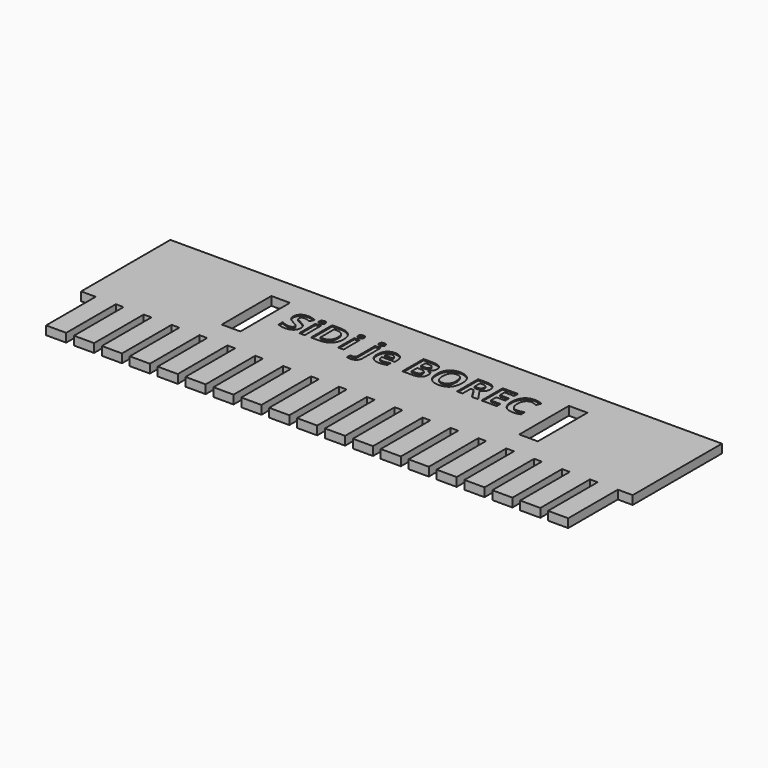
from build123d import *

# Parameters (mm, degrees)
F0_W     = 3
F0_H     = 10
F1_DEPTH = 1.2
F2_W     = 3
F2_H     = 10
F2_W_2   = 0.8927400468
F2_H_2   = 3.2730679157
F3_DEPTH = 0.2


with BuildPart() as f1:
    # F0 (on Top) → F1 (new body)
    with BuildSketch(Plane.XY):
        Polygon((21.7952465117, -13.86883948), (25.0452465117, -13.86883948), (25.0452465117, -3.86883948), (27.4452465117, -3.86883948), (27.4452465117, 0.13116052), (27.4452465117, 10.13116052), (27.4452465117, 14.13116052), (-36.6047604308, 14.13116052), (-39.6047604308, 14.13116052), (-61.5547534883, 14.13116052), (-61.5547534883, 10.13116052), (-61.5547534883, 0.13116052), (-61.5547534883, -3.86883948), (-59.2047534883, -3.86883948), (-59.2047534883, -13.86883948), (-55.9547534883, -13.86883948), (-55.9547534883, -3.86883948), (-54.7047534883, -3.86883948), (-54.7047534883, -13.86883948), (-51.4547534883, -13.86883948), (-51.4547534883, -3.86883948), (-50.2047534883, -3.86883948), (-50.2047534883, -13.86883948), (-46.9547534883, -13.86883948), (-46.9547534883, -3.86883948), (-45.7047534883, -3.86883948), (-45.7047534883, -13.86883948), (-42.4547534883, -13.86883948), (-42.4547534883, -3.86883948), (-41.2047534883, -3.86883948), (-41.2047534883, -13.86883948), (-37.9547534883, -13.86883948), (-37.9547534883, -3.86883948), (-36.7047534883, -3.86883948), (-36.7047534883, -13.86883948), (-33.4547534883, -13.86883948), (-33.4547534883, -3.86883948), (-32.2047534883, -3.86883948), (-32.2047534883, -13.86883948), (-28.9547534883, -13.86883948), (-28.9547534883, -3.86883948), (-27.7047534883, -3.86883948), (-27.7047534883, -13.86883948), (-24.4547534883, -13.86883948), (-24.4547534883, -3.86883948), (-23.2047534883, -3.86883948), (-23.2047534883, -13.86883948), (-19.9547534883, -13.86883948), (-19.9547534883, -3.86883948), (-18.7047534883, -3.86883948), (-18.7047534883, -13.86883948), (-15.4547534883, -13.86883948), (-15.4547534883, -3.86883948), (-14.2047534883, -3.86883948), (-14.2047534883, -13.86883948), (-10.9547534883, -13.86883948), (-10.9547534883, -3.86883948), (-9.7047534883, -3.86883948), (-9.7047534883, -13.86883948), (-6.4547534883, -13.86883948), (-6.4547534883, -3.86883948), (-5.2047534883, -3.86883948), (-5.2047534883, -13.86883948), (-1.9547534883, -13.86883948), (-1.9547534883, -3.86883948), (-0.7047534883, -3.86883948), (-0.7047534883, -13.86883948), (2.5452465117, -13.86883948), (2.5452465117, -3.86883948), (3.7952465117, -3.86883948), (3.7952465117, -13.86883948), (7.0452465117, -13.86883948), (7.0452465117, -3.86883948), (8.2952465117, -3.86883948), (8.2952465117, -13.86883948), (11.5452465117, -13.86883948), (11.5452465117, -3.86883948), (12.7952465117, -3.86883948), (12.7952465117, -13.86883948), (16.0452465117, -13.86883948), (16.0452465117, -3.86883948), (17.2952465117, -3.86883948), (17.2952465117, -13.86883948), (20.5452465117, -13.86883948), (20.5452465117, -3.86883948), (21.7952465117, -3.86883948), align=None)
        with Locations((-40.5547534883, 5.13116052)):
            Rectangle(F0_W, F0_H, mode=Mode.SUBTRACT)
        with Locations((7.4452465117, 5.13116052)):
            Rectangle(F0_W, F0_H, mode=Mode.SUBTRACT)
    extrude(amount=F1_DEPTH)

    # F2 (on face) → F3 (join)
    with BuildSketch(Plane.XY.offset(1.2)):
        Polygon((21.7952465117, -3.86883948), (21.7952465117, -13.86883948), (25.0452465117, -13.86883948), (25.0452465117, -3.86883948), (27.4452465117, -3.86883948), (27.4452465117, 14.13116052), (-61.5547534883, 14.13116052), (-61.5547534883, -3.86883948), (-59.2047534883, -3.86883948), (-59.2047534883, -13.86883948), (-55.9547534883, -13.86883948), (-55.9547534883, -3.86883948), (-54.7047534883, -3.86883948), (-54.7047534883, -13.86883948), (-51.4547534883, -13.86883948), (-51.4547534883, -3.86883948), (-50.2047534883, -3.86883948), (-50.2047534883, -13.86883948), (-46.9547534883, -13.86883948), (-46.9547534883, -3.86883948), (-45.7047534883, -3.86883948), (-45.7047534883, -13.86883948), (-42.4547534883, -13.86883948), (-42.4547534883, -3.86883948), (-41.2047534883, -3.86883948), (-41.2047534883, -13.86883948), (-37.9547534883, -13.86883948), (-37.9547534883, -3.86883948), (-36.7047534883, -3.86883948), (-36.7047534883, -13.86883948), (-33.4547534883, -13.86883948), (-33.4547534883, -3.86883948), (-32.2047534883, -3.86883948), (-32.2047534883, -13.86883948), (-28.9547534883, -13.86883948), (-28.9547534883, -3.86883948), (-27.7047534883, -3.86883948), (-27.7047534883, -13.86883948), (-24.4547534883, -13.86883948), (-24.4547534883, -3.86883948), (-23.2047534883, -3.86883948), (-23.2047534883, -13.86883948), (-19.9547534883, -13.86883948), (-19.9547534883, -3.86883948), (-18.7047534883, -3.86883948), (-18.7047534883, -13.86883948), (-15.4547534883, -13.86883948), (-15.4547534883, -3.86883948), (-14.2047534883, -3.86883948), (-14.2047534883, -13.86883948), (-10.9547534883, -13.86883948), (-10.9547534883, -3.86883948), (-9.7047534883, -3.86883948), (-9.7047534883, -13.86883948), (-6.4547534883, -13.86883948), (-6.4547534883, -3.86883948), (-5.2047534883, -3.86883948), (-5.2047534883, -13.86883948), (-1.9547534883, -13.86883948), (-1.9547534883, -3.86883948), (-0.7047534883, -3.86883948), (-0.7047534883, -13.86883948), (2.5452465117, -13.86883948), (2.5452465117, -3.86883948), (3.7952465117, -3.86883948), (3.7952465117, -13.86883948), (7.0452465117, -13.86883948), (7.0452465117, -3.86883948), (8.2952465117, -3.86883948), (8.2952465117, -13.86883948), (11.5452465117, -13.86883948), (11.5452465117, -3.86883948), (12.7952465117, -3.86883948), (12.7952465117, -13.86883948), (16.0452465117, -13.86883948), (16.0452465117, -3.86883948), (17.2952465117, -3.86883948), (17.2952465117, -13.86883948), (20.5452465117, -13.86883948), (20.5452465117, -3.86883948), align=None)
        with Locations((-40.5547534883, 5.13116052)):
            Rectangle(F2_W, F2_H, mode=Mode.SUBTRACT)
        with BuildLine():
            add(Edge.make_bspline(
                [(-33.9121230392, 6.2955503274), (-33.6896406036, 6.0074941214), (-33.6896406036, 5.5887587584)],
                knots=[0, 0, 0, 1, 1, 1], degree=2))
            add(Edge.make_bspline(
                [(-33.6896406036, 5.5887587584), (-33.6896406036, 5.0088992736), (-34.1069708144, 4.6749414281)],
                knots=[0, 0, 0, 1, 1, 1], degree=2))
            add(Edge.make_bspline(
                [(-34.1069708144, 4.6749414281), (-34.5243010252, 4.3409835827), (-35.267158168, 4.3409835827)],
                knots=[0, 0, 0, 1, 1, 1], degree=2))
            add(Edge.make_bspline(
                [(-35.267158168, 4.3409835827), (-35.9528724537, 4.3409835827), (-36.479336154, 4.5995315921)],
                knots=[0, 0, 0, 1, 1, 1], degree=2))
            Line((-36.479336154, 4.5995315921), (-36.479336154, 5.442622927))
            add(Edge.make_bspline(
                [(-36.479336154, 5.442622927), (-36.0465492687, 5.24871192), (-35.7463150767, 5.1700233954)],
                knots=[0, 0, 0, 1, 1, 1], degree=2))
            add(Edge.make_bspline(
                [(-35.7463150767, 5.1700233954), (-35.4460808847, 5.0913348708), (-35.1969005568, 5.0913348708)],
                knots=[0, 0, 0, 1, 1, 1], degree=2))
            add(Edge.make_bspline(
                [(-35.1969005568, 5.0913348708), (-34.8990082851, 5.0913348708), (-34.7392893156, 5.205152201)],
                knots=[0, 0, 0, 1, 1, 1], degree=2))
            add(Edge.make_bspline(
                [(-34.7392893156, 5.205152201), (-34.579570346, 5.3189695312), (-34.579570346, 5.5447306553)],
                knots=[0, 0, 0, 1, 1, 1], degree=2))
            add(Edge.make_bspline(
                [(-34.579570346, 5.5447306553), (-34.579570346, 5.6702575874), (-34.6498279573, 5.7686182431)],
                knots=[0, 0, 0, 1, 1, 1], degree=2))
            add(Edge.make_bspline(
                [(-34.6498279573, 5.7686182431), (-34.7200855685, 5.8669788989), (-34.8563853343, 5.9573770253)],
                knots=[0, 0, 0, 1, 1, 1], degree=2))
            add(Edge.make_bspline(
                [(-34.8563853343, 5.9573770253), (-34.9926851001, 6.0477751518), (-35.4114204631, 6.2473067677)],
                knots=[0, 0, 0, 1, 1, 1], degree=2))
            add(Edge.make_bspline(
                [(-35.4114204631, 6.2473067677), (-35.8029895498, 6.4318500933), (-35.9992424772, 6.6014051284)],
                knots=[0, 0, 0, 1, 1, 1], degree=2))
            add(Edge.make_bspline(
                [(-35.9992424772, 6.6014051284), (-36.1954954046, 6.7709601635), (-36.3125914233, 6.9967212876)],
                knots=[0, 0, 0, 1, 1, 1], degree=2))
            add(Edge.make_bspline(
                [(-36.3125914233, 6.9967212876), (-36.429687442, 7.2224824118), (-36.429687442, 7.5231849879)],
                knots=[0, 0, 0, 1, 1, 1], degree=2))
            add(Edge.make_bspline(
                [(-36.429687442, 7.5231849879), (-36.429687442, 8.0918032548), (-36.0446757324, 8.4163934188)],
                knots=[0, 0, 0, 1, 1, 1], degree=2))
            add(Edge.make_bspline(
                [(-36.0446757324, 8.4163934188), (-35.6596640228, 8.7409835827), (-34.9805071142, 8.7409835827)],
                knots=[0, 0, 0, 1, 1, 1], degree=2))
            add(Edge.make_bspline(
                [(-34.9805071142, 8.7409835827), (-34.6470176528, 8.7409835827), (-34.3439731563, 8.6622950581)],
                knots=[0, 0, 0, 1, 1, 1], degree=2))
            add(Edge.make_bspline(
                [(-34.3439731563, 8.6622950581), (-34.0409286598, 8.5836065335), (-33.7102495029, 8.4402810066)],
                knots=[0, 0, 0, 1, 1, 1], degree=2))
            Line((-33.7102495029, 8.4402810066), (-34.0025211657, 7.7339578216))
            add(Edge.make_bspline(
                [(-34.0025211657, 7.7339578216), (-34.3453783085, 7.8744730441), (-34.5692658964, 7.930210749)],
                knots=[0, 0, 0, 1, 1, 1], degree=2))
            add(Edge.make_bspline(
                [(-34.5692658964, 7.930210749), (-34.7931534842, 7.9859484539), (-35.0095469268, 7.9859484539)],
                knots=[0, 0, 0, 1, 1, 1], degree=2))
            add(Edge.make_bspline(
                [(-35.0095469268, 7.9859484539), (-35.267158168, 7.9859484539), (-35.4048630861, 7.8660421307)],
                knots=[0, 0, 0, 1, 1, 1], degree=2))
            add(Edge.make_bspline(
                [(-35.4048630861, 7.8660421307), (-35.5425680041, 7.7461358075), (-35.5425680041, 7.5531615687)],
                knots=[0, 0, 0, 1, 1, 1], degree=2))
            add(Edge.make_bspline(
                [(-35.5425680041, 7.5531615687), (-35.5425680041, 7.4332552455), (-35.4868302992, 7.3437938872)],
                knots=[0, 0, 0, 1, 1, 1], degree=2))
            add(Edge.make_bspline(
                [(-35.4868302992, 7.3437938872), (-35.4310925943, 7.2543325289), (-35.3097811188, 7.1709601635)],
                knots=[0, 0, 0, 1, 1, 1], degree=2))
            add(Edge.make_bspline(
                [(-35.3097811188, 7.1709601635), (-35.1884696434, 7.0875877982), (-34.7350738589, 6.8711943555)],
                knots=[0, 0, 0, 1, 1, 1], degree=2))
            add(Edge.make_bspline(
                [(-34.7350738589, 6.8711943555), (-34.1346054748, 6.5836065335), (-33.9121230392, 6.2955503274)],
                knots=[0, 0, 0, 1, 1, 1], degree=2))
        make_face(mode=Mode.SUBTRACT)
        with Locations((-32.5378841633, 6.036533934)):
            Rectangle(F2_W_2, F2_H_2, mode=Mode.SUBTRACT)
        with BuildLine():
            add(Edge.make_bspline(
                [(-28.1130598074, 8.1269320605), (-27.5332003226, 7.573770468), (-27.5332003226, 6.5807962291)],
                knots=[0, 0, 0, 1, 1, 1], degree=2))
            add(Edge.make_bspline(
                [(-27.5332003226, 6.5807962291), (-27.5332003226, 5.524121756), (-28.1350738589, 4.9620608661)],
                knots=[0, 0, 0, 1, 1, 1], degree=2))
            add(Edge.make_bspline(
                [(-28.1350738589, 4.9620608661), (-28.7369473952, 4.3999999762), (-29.8723103928, 4.3999999762)],
                knots=[0, 0, 0, 1, 1, 1], degree=2))
            Line((-29.8723103928, 4.3999999762), (-31.0844883788, 4.3999999762))
            Line((-31.0844883788, 4.3999999762), (-31.0844883788, 8.680093653))
            Line((-31.0844883788, 8.680093653), (-29.7411628519, 8.680093653))
            add(Edge.make_bspline(
                [(-29.7411628519, 8.680093653), (-28.6929192921, 8.680093653), (-28.1130598074, 8.1269320605)],
                knots=[0, 0, 0, 1, 1, 1], degree=2))
        make_face(mode=Mode.SUBTRACT)
        with BuildLine():
            add(Edge.make_bspline(
                [(-22.7378841633, 3.2421545429), (-23.0395235076, 2.9592505616), (-23.592216716, 2.9592505616)],
                knots=[0, 0, 0, 1, 1, 1], degree=2))
            add(Edge.make_bspline(
                [(-23.592216716, 2.9592505616), (-23.9350738589, 2.9592505616), (-24.1805071142, 3.0332552455)],
                knots=[0, 0, 0, 1, 1, 1], degree=2))
            Line((-24.1805071142, 3.0332552455), (-24.1805071142, 3.7358313579))
            add(Edge.make_bspline(
                [(-24.1805071142, 3.7358313579), (-23.9762916575, 3.6796252689), (-23.7617717512, 3.6796252689)],
                knots=[0, 0, 0, 1, 1, 1], degree=2))
            add(Edge.make_bspline(
                [(-23.7617717512, 3.6796252689), (-23.5369473952, 3.6796252689), (-23.4329661306, 3.8056205851)],
                knots=[0, 0, 0, 1, 1, 1], degree=2))
            add(Edge.make_bspline(
                [(-23.4329661306, 3.8056205851), (-23.3289848659, 3.9316159012), (-23.3289848659, 4.1770491565)],
                knots=[0, 0, 0, 1, 1, 1], degree=2))
            Line((-23.3289848659, 4.1770491565), (-23.3289848659, 7.6730678918))
            Line((-23.3289848659, 7.6730678918), (-22.4362448191, 7.6730678918))
            Line((-22.4362448191, 7.6730678918), (-22.4362448191, 4.0459016155))
            add(Edge.make_bspline(
                [(-22.4362448191, 4.0459016155), (-22.4362448191, 3.5250585242), (-22.7378841633, 3.2421545429)],
                knots=[0, 0, 0, 1, 1, 1], degree=2))
        make_face(mode=Mode.SUBTRACT)
        with Locations((-26.2699684725, 6.036533934)):
            Rectangle(F2_W_2, F2_H_2, mode=Mode.SUBTRACT)
        with BuildLine():
            add(Edge.make_bspline(
                [(-19.3683291282, 4.3981264399), (-19.6343712828, 4.3409835827), (-20.0184462242, 4.3409835827)],
                knots=[0, 0, 0, 1, 1, 1], degree=2))
            add(Edge.make_bspline(
                [(-20.0184462242, 4.3409835827), (-20.8081417746, 4.3409835827), (-21.2531066458, 4.7775175406)],
                knots=[0, 0, 0, 1, 1, 1], degree=2))
            add(Edge.make_bspline(
                [(-21.2531066458, 4.7775175406), (-21.698071517, 5.2140514984), (-21.698071517, 6.0131147303)],
                knots=[0, 0, 0, 1, 1, 1], degree=2))
            add(Edge.make_bspline(
                [(-21.698071517, 6.0131147303), (-21.698071517, 6.8355971659), (-21.2868302992, 7.2847774937)],
                knots=[0, 0, 0, 1, 1, 1], degree=2))
            add(Edge.make_bspline(
                [(-21.2868302992, 7.2847774937), (-20.8755890814, 7.7339578216), (-20.1495937652, 7.7339578216)],
                knots=[0, 0, 0, 1, 1, 1], degree=2))
            add(Edge.make_bspline(
                [(-20.1495937652, 7.7339578216), (-19.4563853343, 7.7339578216), (-19.0699684725, 7.3391100464)],
                knots=[0, 0, 0, 1, 1, 1], degree=2))
            add(Edge.make_bspline(
                [(-19.0699684725, 7.3391100464), (-18.6835516106, 6.9442622712), (-18.6835516106, 6.2473067677)],
                knots=[0, 0, 0, 1, 1, 1], degree=2))
            Line((-18.6835516106, 6.2473067677), (-18.6835516106, 5.8135831143))
            Line((-18.6835516106, 5.8135831143), (-20.7940902523, 5.8135831143))
            add(Edge.make_bspline(
                [(-20.7940902523, 5.8135831143), (-20.7791019619, 5.4332552455), (-20.5683291282, 5.2196721073)],
                knots=[0, 0, 0, 1, 1, 1], degree=2))
            add(Edge.make_bspline(
                [(-20.5683291282, 5.2196721073), (-20.3575562945, 5.0060889691), (-19.9772284256, 5.0060889691)],
                knots=[0, 0, 0, 1, 1, 1], degree=2))
            add(Edge.make_bspline(
                [(-19.9772284256, 5.0060889691), (-19.6812096903, 5.0060889691), (-19.4179778402, 5.0674472829)],
                knots=[0, 0, 0, 1, 1, 1], degree=2))
            add(Edge.make_bspline(
                [(-19.4179778402, 5.0674472829), (-19.15474599, 5.1288055968), (-18.8680949362, 5.2637002104)],
                knots=[0, 0, 0, 1, 1, 1], degree=2))
            Line((-18.8680949362, 5.2637002104), (-18.8680949362, 4.5723653157))
            add(Edge.make_bspline(
                [(-18.8680949362, 4.5723653157), (-19.1022869736, 4.455269297), (-19.3683291282, 4.3981264399)],
                knots=[0, 0, 0, 1, 1, 1], degree=2))
        make_face(mode=Mode.SUBTRACT)
        with BuildLine():
            add(Edge.make_bspline(
                [(-32.5364790111, 8.0796252689), (-33.0226616809, 8.0796252689), (-33.0226616809, 8.5189695312)],
                knots=[0, 0, 0, 1, 1, 1], degree=2))
            add(Edge.make_bspline(
                [(-33.0226616809, 8.5189695312), (-33.0226616809, 8.955503489), (-32.5364790111, 8.955503489)],
                knots=[0, 0, 0, 1, 1, 1], degree=2))
            add(Edge.make_bspline(
                [(-32.5364790111, 8.955503489), (-32.0502963413, 8.955503489), (-32.0502963413, 8.5189695312)],
                knots=[0, 0, 0, 1, 1, 1], degree=2))
            add(Edge.make_bspline(
                [(-32.0502963413, 8.5189695312), (-32.0502963413, 8.3110070019), (-32.1716078167, 8.1953161354)],
                knots=[0, 0, 0, 1, 1, 1], degree=2))
            add(Edge.make_bspline(
                [(-32.1716078167, 8.1953161354), (-32.2929192921, 8.0796252689), (-32.5364790111, 8.0796252689)],
                knots=[0, 0, 0, 1, 1, 1], degree=2))
        make_face(mode=Mode.SUBTRACT)
        with BuildLine():
            add(Edge.make_bspline(
                [(-26.2685633202, 8.0796252689), (-26.75474599, 8.0796252689), (-26.75474599, 8.5189695312)],
                knots=[0, 0, 0, 1, 1, 1], degree=2))
            add(Edge.make_bspline(
                [(-26.75474599, 8.5189695312), (-26.75474599, 8.955503489), (-26.2685633202, 8.955503489)],
                knots=[0, 0, 0, 1, 1, 1], degree=2))
            add(Edge.make_bspline(
                [(-26.2685633202, 8.955503489), (-25.7823806505, 8.955503489), (-25.7823806505, 8.5189695312)],
                knots=[0, 0, 0, 1, 1, 1], degree=2))
            add(Edge.make_bspline(
                [(-25.7823806505, 8.5189695312), (-25.7823806505, 8.3110070019), (-25.9036921259, 8.1953161354)],
                knots=[0, 0, 0, 1, 1, 1], degree=2))
            add(Edge.make_bspline(
                [(-25.9036921259, 8.1953161354), (-26.0250036013, 8.0796252689), (-26.2685633202, 8.0796252689)],
                knots=[0, 0, 0, 1, 1, 1], degree=2))
        make_face(mode=Mode.SUBTRACT)
        with BuildLine():
            add(Edge.make_bspline(
                [(-22.8812096903, 8.0796252689), (-23.3673923601, 8.0796252689), (-23.3673923601, 8.5189695312)],
                knots=[0, 0, 0, 1, 1, 1], degree=2))
            add(Edge.make_bspline(
                [(-23.3673923601, 8.5189695312), (-23.3673923601, 8.955503489), (-22.8812096903, 8.955503489)],
                knots=[0, 0, 0, 1, 1, 1], degree=2))
            add(Edge.make_bspline(
                [(-22.8812096903, 8.955503489), (-22.3950270205, 8.955503489), (-22.3950270205, 8.5189695312)],
                knots=[0, 0, 0, 1, 1, 1], degree=2))
            add(Edge.make_bspline(
                [(-22.3950270205, 8.5189695312), (-22.3950270205, 8.3110070019), (-22.5163384959, 8.1953161354)],
                knots=[0, 0, 0, 1, 1, 1], degree=2))
            add(Edge.make_bspline(
                [(-22.5163384959, 8.1953161354), (-22.6376499713, 8.0796252689), (-22.8812096903, 8.0796252689)],
                knots=[0, 0, 0, 1, 1, 1], degree=2))
        make_face(mode=Mode.SUBTRACT)
        with BuildLine():
            Line((-16.32945325, 4.3999999762), (-16.32945325, 8.680093653))
            Line((-16.32945325, 8.680093653), (-14.9973689409, 8.680093653))
            add(Edge.make_bspline(
                [(-14.9973689409, 8.680093653), (-14.0868302992, 8.680093653), (-13.6755890814, 8.4210772595)],
                knots=[0, 0, 0, 1, 1, 1], degree=2))
            add(Edge.make_bspline(
                [(-13.6755890814, 8.4210772595), (-13.2643478636, 8.1620608661), (-13.2643478636, 7.5971896717)],
                knots=[0, 0, 0, 1, 1, 1], degree=2))
            add(Edge.make_bspline(
                [(-13.2643478636, 7.5971896717), (-13.2643478636, 7.2131147303), (-13.4442073484, 6.9672130909)],
                knots=[0, 0, 0, 1, 1, 1], degree=2))
            add(Edge.make_bspline(
                [(-13.4442073484, 6.9672130909), (-13.6240668331, 6.7213114516), (-13.9228958729, 6.6716627396)],
                knots=[0, 0, 0, 1, 1, 1], degree=2))
            Line((-13.9228958729, 6.6716627396), (-13.9228958729, 6.642622927))
            add(Edge.make_bspline(
                [(-13.9228958729, 6.642622927), (-13.5163384959, 6.5517564164), (-13.336010627, 6.3030444726)],
                knots=[0, 0, 0, 1, 1, 1], degree=2))
            add(Edge.make_bspline(
                [(-13.336010627, 6.3030444726), (-13.1556827582, 6.0543325289), (-13.1556827582, 5.6412177748)],
                knots=[0, 0, 0, 1, 1, 1], degree=2))
            add(Edge.make_bspline(
                [(-13.1556827582, 5.6412177748), (-13.1556827582, 5.0557376811), (-13.5791019619, 4.7278688286)],
                knots=[0, 0, 0, 1, 1, 1], degree=2))
            add(Edge.make_bspline(
                [(-13.5791019619, 4.7278688286), (-14.0025211657, 4.3999999762), (-14.7285164818, 4.3999999762)],
                knots=[0, 0, 0, 1, 1, 1], degree=2))
            Line((-14.7285164818, 4.3999999762), (-16.32945325, 4.3999999762))
        make_face(mode=Mode.SUBTRACT)
        with BuildLine():
            add(Edge.make_bspline(
                [(-8.9392893156, 8.1793910769), (-8.4165726879, 7.611241194), (-8.4165726879, 6.5461358075)],
                knots=[0, 0, 0, 1, 1, 1], degree=2))
            add(Edge.make_bspline(
                [(-8.4165726879, 6.5461358075), (-8.4165726879, 5.4829039574), (-8.9435047722, 4.9119437701)],
                knots=[0, 0, 0, 1, 1, 1], degree=2))
            add(Edge.make_bspline(
                [(-8.9435047722, 4.9119437701), (-9.4704368565, 4.3409835827), (-10.4540434139, 4.3409835827)],
                knots=[0, 0, 0, 1, 1, 1], degree=2))
            add(Edge.make_bspline(
                [(-10.4540434139, 4.3409835827), (-11.4376499713, 4.3409835827), (-11.9645820556, 4.9119437701)],
                knots=[0, 0, 0, 1, 1, 1], degree=2))
            add(Edge.make_bspline(
                [(-11.9645820556, 4.9119437701), (-12.4915141399, 5.4829039574), (-12.4915141399, 6.5517564164)],
                knots=[0, 0, 0, 1, 1, 1], degree=2))
            add(Edge.make_bspline(
                [(-12.4915141399, 6.5517564164), (-12.4915141399, 7.6206088755), (-11.9631769034, 8.1840749176)],
                knots=[0, 0, 0, 1, 1, 1], degree=2))
            add(Edge.make_bspline(
                [(-11.9631769034, 8.1840749176), (-11.4348396669, 8.7475409598), (-10.448422805, 8.7475409598)],
                knots=[0, 0, 0, 1, 1, 1], degree=2))
            add(Edge.make_bspline(
                [(-10.448422805, 8.7475409598), (-9.4620059432, 8.7475409598), (-8.9392893156, 8.1793910769)],
                knots=[0, 0, 0, 1, 1, 1], degree=2))
        make_face(mode=Mode.SUBTRACT)
        with BuildLine():
            Line((-6.1392893156, 6.0421545429), (-6.6217249128, 6.0421545429))
            Line((-6.6217249128, 6.0421545429), (-6.6217249128, 4.3999999762))
            Line((-6.6217249128, 4.3999999762), (-7.52945325, 4.3999999762))
            Line((-7.52945325, 4.3999999762), (-7.52945325, 8.680093653))
            Line((-7.52945325, 8.680093653), (-6.2826148425, 8.680093653))
            add(Edge.make_bspline(
                [(-6.2826148425, 8.680093653), (-5.4095469268, 8.680093653), (-4.9912799479, 8.3625292502)],
                knots=[0, 0, 0, 1, 1, 1], degree=2))
            add(Edge.make_bspline(
                [(-4.9912799479, 8.3625292502), (-4.573012969, 8.0449648474), (-4.573012969, 7.3976580558)],
                knots=[0, 0, 0, 1, 1, 1], degree=2))
            add(Edge.make_bspline(
                [(-4.573012969, 7.3976580558), (-4.573012969, 7.0201404914), (-4.7805071142, 6.7259952923)],
                knots=[0, 0, 0, 1, 1, 1], degree=2))
            add(Edge.make_bspline(
                [(-4.7805071142, 6.7259952923), (-4.9880012594, 6.4318500933), (-5.3692658964, 6.2651053626)],
                knots=[0, 0, 0, 1, 1, 1], degree=2))
            add(Edge.make_bspline(
                [(-5.3692658964, 6.2651053626), (-4.4025211657, 4.8215456436), (-4.1102495029, 4.3999999762)],
                knots=[0, 0, 0, 1, 1, 1], degree=2))
            Line((-4.1102495029, 4.3999999762), (-5.117275264, 4.3999999762))
            Line((-5.117275264, 4.3999999762), (-6.1392893156, 6.0421545429))
        make_face(mode=Mode.SUBTRACT)
        Polygon((-1.1069708144, 5.1494144961), (-1.1069708144, 4.3999999762), (-3.5716078167, 4.3999999762), (-3.5716078167, 8.680093653), (-1.1069708144, 8.680093653), (-1.1069708144, 7.936299742), (-2.6638794795, 7.936299742), (-2.6638794795, 6.9967212876), (-1.2146991516, 6.9967212876), (-1.2146991516, 6.2529273766), (-2.6638794795, 6.2529273766), (-2.6638794795, 5.1494144961), align=None, mode=Mode.SUBTRACT)
        with BuildLine():
            add(Edge.make_bspline(
                [(2.0808511997, 7.9011709363), (1.8382282488, 7.9859484539), (1.6040362114, 7.9859484539)],
                knots=[0, 0, 0, 1, 1, 1], degree=2))
            add(Edge.make_bspline(
                [(1.6040362114, 7.9859484539), (1.0916240334, 7.9859484539), (0.8105935884, 7.6009367443)],
                knots=[0, 0, 0, 1, 1, 1], degree=2))
            add(Edge.make_bspline(
                [(0.8105935884, 7.6009367443), (0.5295631435, 7.2159250347), (0.5295631435, 6.5283372127)],
                knots=[0, 0, 0, 1, 1, 1], degree=2))
            add(Edge.make_bspline(
                [(0.5295631435, 6.5283372127), (0.5295631435, 5.0969554797), (1.6040362114, 5.0969554797)],
                knots=[0, 0, 0, 1, 1, 1], degree=2))
            add(Edge.make_bspline(
                [(1.6040362114, 5.0969554797), (2.0546216915, 5.0969554797), (2.695371106, 5.3217798356)],
                knots=[0, 0, 0, 1, 1, 1], degree=2))
            Line((2.695371106, 5.3217798356), (2.695371106, 4.5611240979))
            add(Edge.make_bspline(
                [(2.695371106, 4.5611240979), (2.1689074057, 4.3409835827), (1.5187903097, 4.3409835827)],
                knots=[0, 0, 0, 1, 1, 1], degree=2))
            add(Edge.make_bspline(
                [(1.5187903097, 4.3409835827), (0.5848324643, 4.3409835827), (0.0902188812, 4.9077283134)],
                knots=[0, 0, 0, 1, 1, 1], degree=2))
            add(Edge.make_bspline(
                [(0.0902188812, 4.9077283134), (-0.404394702, 5.4744730441), (-0.404394702, 6.5339578216)],
                knots=[0, 0, 0, 1, 1, 1], degree=2))
            add(Edge.make_bspline(
                [(-0.404394702, 6.5339578216), (-0.404394702, 7.2018735125), (-0.1613033671, 7.7039812408)],
                knots=[0, 0, 0, 1, 1, 1], degree=2))
            add(Edge.make_bspline(
                [(-0.1613033671, 7.7039812408), (0.0817879678, 8.2060889691), (0.5370572887, 8.4735362759)],
                knots=[0, 0, 0, 1, 1, 1], degree=2))
            add(Edge.make_bspline(
                [(0.5370572887, 8.4735362759), (0.9923266095, 8.7409835827), (1.6040362114, 8.7409835827)],
                knots=[0, 0, 0, 1, 1, 1], degree=2))
            add(Edge.make_bspline(
                [(1.6040362114, 8.7409835827), (2.226987031, 8.7409835827), (2.8564952278, 8.4402810066)],
                knots=[0, 0, 0, 1, 1, 1], degree=2))
            Line((2.8564952278, 8.4402810066), (2.564223565, 7.7021077045))
            add(Edge.make_bspline(
                [(2.564223565, 7.7021077045), (2.3234741505, 7.8163934188), (2.0808511997, 7.9011709363)],
                knots=[0, 0, 0, 1, 1, 1], degree=2))
        make_face(mode=Mode.SUBTRACT)
        with Locations((7.4452465117, 5.13116052)):
            Rectangle(F2_W, F2_H, mode=Mode.SUBTRACT)
        with BuildLine():
            add(Edge.make_bspline(
                [(-29.7880012594, 5.1494144961), (-28.4765258495, 5.1494144961), (-28.4765258495, 6.5573770253)],
                knots=[0, 0, 0, 1, 1, 1], degree=2))
            add(Edge.make_bspline(
                [(-28.4765258495, 6.5573770253), (-28.4765258495, 7.936299742), (-29.6943244444, 7.936299742)],
                knots=[0, 0, 0, 1, 1, 1], degree=2))
            Line((-29.6943244444, 7.936299742), (-30.1767600416, 7.936299742))
            Line((-30.1767600416, 7.936299742), (-30.1767600416, 5.1494144961))
            Line((-30.1767600416, 5.1494144961), (-29.7880012594, 5.1494144961))
        make_face()
        with BuildLine():
            add(Edge.make_bspline(
                [(-19.6933876762, 6.9189695312), (-19.8601324069, 7.098829016), (-20.1439731563, 7.098829016)],
                knots=[0, 0, 0, 1, 1, 1], degree=2))
            add(Edge.make_bspline(
                [(-20.1439731563, 7.098829016), (-20.4278139057, 7.098829016), (-20.5889380275, 6.9189695312)],
                knots=[0, 0, 0, 1, 1, 1], degree=2))
            add(Edge.make_bspline(
                [(-20.5889380275, 6.9189695312), (-20.7500621493, 6.7391100464), (-20.773481353, 6.4084308895)],
                knots=[0, 0, 0, 1, 1, 1], degree=2))
            Line((-20.773481353, 6.4084308895), (-19.5200855685, 6.4084308895))
            add(Edge.make_bspline(
                [(-19.5200855685, 6.4084308895), (-19.5266429455, 6.7391100464), (-19.6933876762, 6.9189695312)],
                knots=[0, 0, 0, 1, 1, 1], degree=2))
        make_face()
        with BuildLine():
            Line((-14.8596640228, 6.2651053626), (-15.4217249128, 6.2651053626))
            Line((-15.4217249128, 6.2651053626), (-15.4217249128, 5.1494144961))
            Line((-15.4217249128, 5.1494144961), (-14.8306242102, 5.1494144961))
            add(Edge.make_bspline(
                [(-14.8306242102, 5.1494144961), (-14.4559169502, 5.1494144961), (-14.2774626177, 5.292740023)],
                knots=[0, 0, 0, 1, 1, 1], degree=2))
            add(Edge.make_bspline(
                [(-14.2774626177, 5.292740023), (-14.0990082851, 5.4360655499), (-14.0990082851, 5.7320842853)],
                knots=[0, 0, 0, 1, 1, 1], degree=2))
            add(Edge.make_bspline(
                [(-14.0990082851, 5.7320842853), (-14.0990082851, 6.2651053626), (-14.8596640228, 6.2651053626)],
                knots=[0, 0, 0, 1, 1, 1], degree=2))
        make_face()
        with BuildLine():
            add(Edge.make_bspline(
                [(-11.2648162476, 7.6271662525), (-11.5397576996, 7.2627634422), (-11.5397576996, 6.5461358075)],
                knots=[0, 0, 0, 1, 1, 1], degree=2))
            add(Edge.make_bspline(
                [(-11.5397576996, 6.5461358075), (-11.5397576996, 5.8285714047), (-11.2676265521, 5.4655737466)],
                knots=[0, 0, 0, 1, 1, 1], degree=2))
            add(Edge.make_bspline(
                [(-11.2676265521, 5.4655737466), (-10.9954954046, 5.1025760886), (-10.4540434139, 5.1025760886)],
                knots=[0, 0, 0, 1, 1, 1], degree=2))
            add(Edge.make_bspline(
                [(-10.4540434139, 5.1025760886), (-9.3683291282, 5.1025760886), (-9.3683291282, 6.5461358075)],
                knots=[0, 0, 0, 1, 1, 1], degree=2))
            add(Edge.make_bspline(
                [(-9.3683291282, 6.5461358075), (-9.3683291282, 7.9915690628), (-10.448422805, 7.9915690628)],
                knots=[0, 0, 0, 1, 1, 1], degree=2))
            add(Edge.make_bspline(
                [(-10.448422805, 7.9915690628), (-10.9898747957, 7.9915690628), (-11.2648162476, 7.6271662525)],
                knots=[0, 0, 0, 1, 1, 1], degree=2))
        make_face()
        with BuildLine():
            Line((-15.4217249128, 7.936299742), (-15.4217249128, 6.9845433017))
            Line((-15.4217249128, 6.9845433017), (-14.8952612125, 6.9845433017))
            add(Edge.make_bspline(
                [(-14.8952612125, 6.9845433017), (-14.5261745615, 6.9845433017), (-14.360834983, 7.098829016)],
                knots=[0, 0, 0, 1, 1, 1], degree=2))
            add(Edge.make_bspline(
                [(-14.360834983, 7.098829016), (-14.1954954046, 7.2131147303), (-14.1954954046, 7.4763465804)],
                knots=[0, 0, 0, 1, 1, 1], degree=2))
            add(Edge.make_bspline(
                [(-14.1954954046, 7.4763465804), (-14.1954954046, 7.7227166038), (-14.3753548893, 7.8295081729)],
                knots=[0, 0, 0, 1, 1, 1], degree=2))
            add(Edge.make_bspline(
                [(-14.3753548893, 7.8295081729), (-14.5552143741, 7.936299742), (-14.9449099245, 7.936299742)],
                knots=[0, 0, 0, 1, 1, 1], degree=2))
            Line((-14.9449099245, 7.936299742), (-15.4217249128, 7.936299742))
        make_face()
        with BuildLine():
            Line((-6.6217249128, 7.936299742), (-6.6217249128, 6.780327845))
            Line((-6.6217249128, 6.780327845), (-6.32945325, 6.780327845))
            add(Edge.make_bspline(
                [(-6.32945325, 6.780327845), (-5.898539901, 6.780327845), (-5.6938560603, 6.9236533719)],
                knots=[0, 0, 0, 1, 1, 1], degree=2))
            add(Edge.make_bspline(
                [(-5.6938560603, 6.9236533719), (-5.4891722195, 7.0669788989), (-5.4891722195, 7.374238852)],
                knots=[0, 0, 0, 1, 1, 1], degree=2))
            add(Edge.make_bspline(
                [(-5.4891722195, 7.374238852), (-5.4891722195, 7.6786885007), (-5.698539901, 7.8074941214)],
                knots=[0, 0, 0, 1, 1, 1], degree=2))
            add(Edge.make_bspline(
                [(-5.698539901, 7.8074941214), (-5.9079075825, 7.936299742), (-6.3463150767, 7.936299742)],
                knots=[0, 0, 0, 1, 1, 1], degree=2))
            Line((-6.3463150767, 7.936299742), (-6.6217249128, 7.936299742))
        make_face()
    extrude(amount=F3_DEPTH)


solid = f1.part
